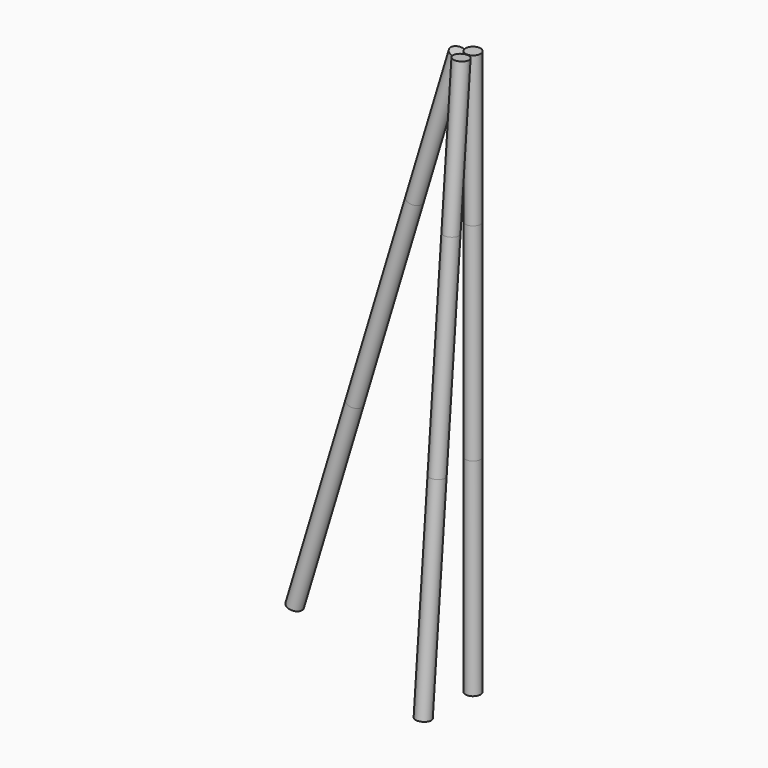
from build123d import *

# Parameters (mm, degrees)
F10_R     = 33
F11_DEPTH = 910
F12_R     = 33
F13_DEPTH = 910
F14_R     = 33
F15_DEPTH = 910
F19_DEPTH = 910
F20_DEPTH = 910
F21_DEPTH = 910
F22_DEPTH = 660
F23_DEPTH = 660
F24_DEPTH = 660


with BuildPart() as f11:
    # F10 (on line) → F11 (new body)
    with BuildSketch(Plane(origin=(-10.6879139994, 0, -35.3354550137), x_dir=(0.9571731353, 0, -0.289516129), z_dir=(0.289516129, 0, 0.9571731353))):
        with Locations((-398.3731593786, 137)):
            Circle(F10_R)
    extrude(amount=F11_DEPTH)


with BuildPart() as f13:
    # F12 (on line) → F13 (new body)
    with BuildSketch(Plane(origin=(0, -0.1279498872, -1.520181238), x_dir=(1, 0, 0), z_dir=(0, 0.0838709677, 0.9964766233))):
        with Locations((392, -137.3560070686)):
            Circle(F12_R)
    extrude(amount=F13_DEPTH)


with BuildPart() as f15:
    # F14 (on Top) → F15 (new body)
    with BuildSketch(Plane.XY):
        with Locations((392, 137)):
            Circle(F14_R)
    extrude(amount=F15_DEPTH)


with BuildPart() as f19:
    # F19 (new): a face of the model
    f19_faces = [f11.part.faces().sort_by_distance(p)[0] for p in [
        (-128.5403225806, 137, 951.0275531659),
    ]]
    extrude(f19_faces, amount=F19_DEPTH)


with BuildPart() as f20:
    # F20 (new): a face of the model
    f20_faces = [f13.part.faces().sort_by_distance(p)[0] for p in [
        (392, -60.6774193548, 916.7937271969),
    ]]
    extrude(f20_faces, amount=F20_DEPTH)


with BuildPart() as f21:
    # F21 (new): a face of the model
    f21_faces = [f15.part.faces().sort_by_distance(p)[0] for p in [
        (392, 137, 910),
    ]]
    extrude(f21_faces, amount=F21_DEPTH)


with BuildPart() as f22:
    # F22 (new): a face of the model
    f22_faces = [f19.part.faces().sort_by_distance(p)[0] for p in [
        (134.9193548387, 137, 1822.0551063317),
    ]]
    extrude(f22_faces, amount=F22_DEPTH)


with BuildPart() as f23:
    # F23 (new): a face of the model
    f23_faces = [f20.part.faces().sort_by_distance(p)[0] for p in [
        (392, 15.6451612903, 1823.5874543938),
    ]]
    extrude(f23_faces, amount=F23_DEPTH)


with BuildPart() as f24:
    # F24 (new): a face of the model
    f24_faces = [f21.part.faces().sort_by_distance(p)[0] for p in [
        (392, 137, 1820),
    ]]
    extrude(f24_faces, amount=F24_DEPTH)


solid = Compound([f11.part, f13.part, f15.part, f19.part, f20.part, f21.part, f22.part, f23.part, f24.part])
